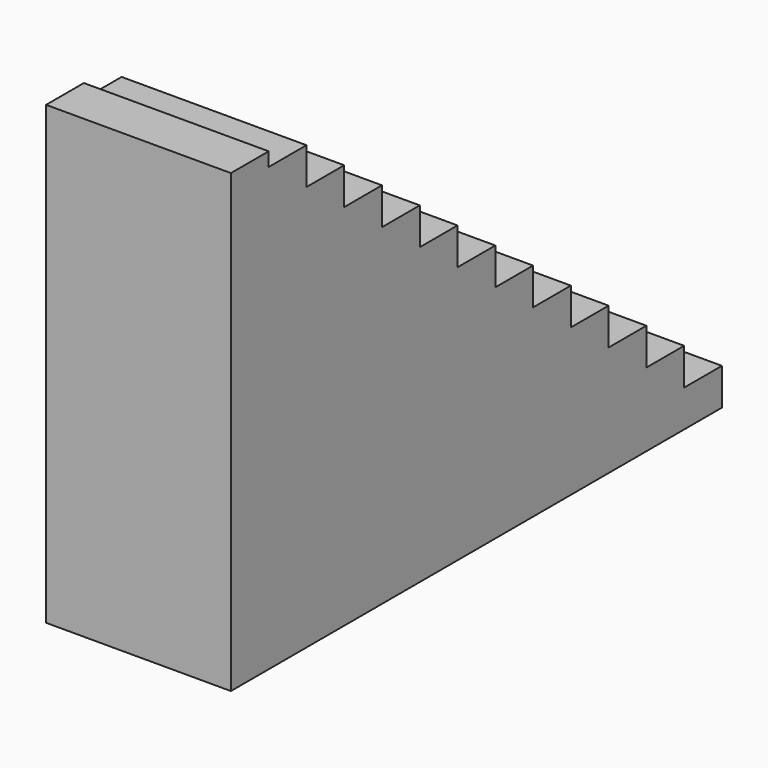
from build123d import *

# Parameters (mm, degrees)
F0_W     = 1019.175
F0_H     = 3384.55
F1_DEPTH = 2514.6
F3_DEPTH = 1019.175


with BuildPart() as f1:
    # F0 (on Top) → F1 (new body)
    with BuildSketch(Plane.XY):
        with Locations((509.5875, 1692.275)):
            Rectangle(F0_W, F0_H)
    extrude(amount=F1_DEPTH)

    # F2 (on face) → F3 (cut)
    with BuildSketch(Plane.YZ.offset(1019.175)):
        Polygon((3124.2, 203.2), (3384.55, 203.2), (3384.55, 2514.6), (260.35, 2514.6), (260.35, 2438.4), (520.7, 2438.4), (520.7, 2235.2), (781.05, 2235.2), (781.05, 2032), (1041.4, 2032), (1041.4, 1828.8), (1301.75, 1828.8), (1301.75, 1625.6), (1562.1, 1625.6), (1562.1, 1422.4), (1822.45, 1422.4), (1822.45, 1219.2), (2082.8, 1219.2), (2082.8, 1016), (2343.15, 1016), (2343.15, 812.8), (2603.5, 812.8), (2603.5, 609.6), (2863.85, 609.6), (2863.85, 406.4), (3124.2, 406.4), align=None)
    extrude(amount=-F3_DEPTH, mode=Mode.SUBTRACT)


solid = f1.part
